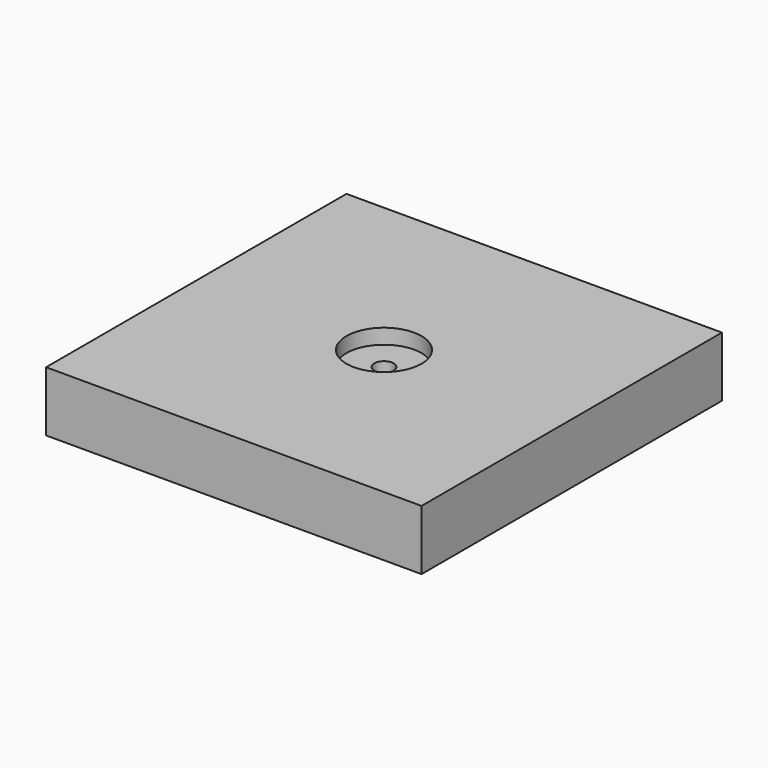
from build123d import *

# Parameters (mm, degrees)
F0_W     = 50
F0_H     = 50
F1_DEPTH = 8
F2_R     = 5
F3_DEPTH = 2
F4_R     = 1.3
F5_DEPTH = 6.001


with BuildPart() as f1:
    # F0 (on Top) → F1 (new body)
    with BuildSketch(Plane.XY):
        Rectangle(F0_W, F0_H)
    extrude(amount=-F1_DEPTH)

    # F2 (on face) → F3 (cut)
    with BuildSketch(Plane.XY):
        Circle(F2_R)
    extrude(amount=-F3_DEPTH, mode=Mode.SUBTRACT)

    # F4 (on face) → F5 (cut, through all)
    with BuildSketch(Plane.XY.offset(-2)):
        Circle(F4_R)
    extrude(amount=-F5_DEPTH, mode=Mode.SUBTRACT)


solid = f1.part
